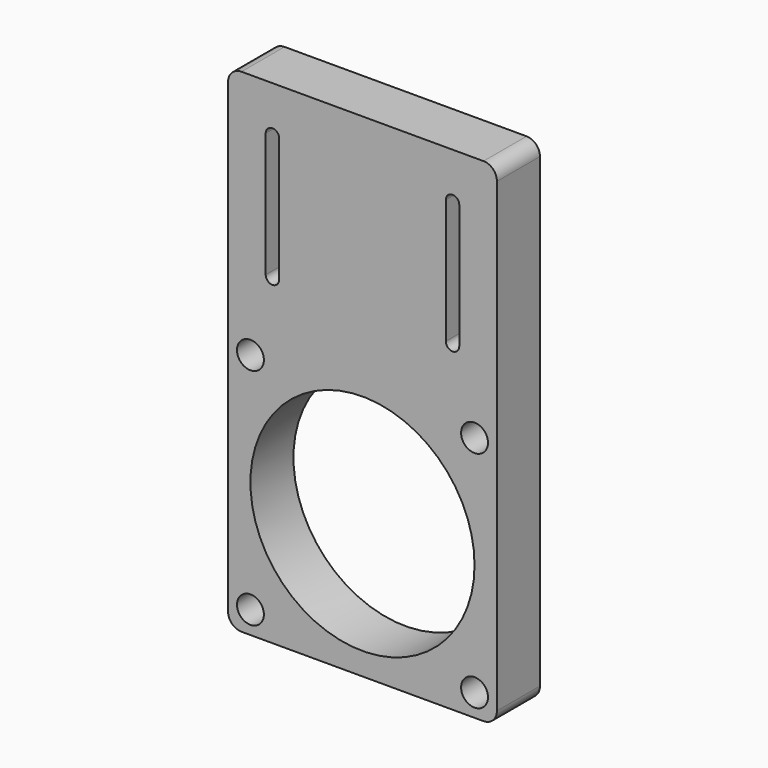
from build123d import *

# Parameters (mm, degrees)
F0_R     = 1.5
F0_R_2   = 12.5
F1_DEPTH = 6


with BuildPart() as f1:
    # F0 (on Front) → F1 (new body)
    with BuildSketch(Plane.XZ):
        with BuildLine():
            Line((-13.5, -27.5), (13.5, -27.5))
            ThreePointArc((13.5, -27.5), (14.56066, -27.06066), (15, -26))
            Line((15, -26), (15, 26))
            ThreePointArc((15, 26), (14.56066, 27.06066), (13.5, 27.5))
            Line((13.5, 27.5), (-13.5, 27.5))
            ThreePointArc((-13.5, 27.5), (-14.56066, 27.06066), (-15, 26))
            Line((-15, 26), (-15, -26))
            ThreePointArc((-15, -26), (-14.56066, -27.06066), (-13.5, -27.5))
        make_face()
        with Locations((-12.5, -25)):
            Circle(F0_R, mode=Mode.SUBTRACT)
        with Locations((12.5, -25)):
            Circle(F0_R, mode=Mode.SUBTRACT)
        with Locations((0, -12.5)):
            Circle(F0_R_2, mode=Mode.SUBTRACT)
        with Locations((-12.5, 0)):
            Circle(F0_R, mode=Mode.SUBTRACT)
        with BuildLine():
            Line((-9.295934, 22.325195), (-9.295934, 8.433623))
            ThreePointArc((-9.295934, 8.433623), (-10.045934, 7.683623), (-10.795934, 8.433623))
            Line((-10.795934, 8.433623), (-10.795934, 22.325195))
            ThreePointArc((-10.795934, 22.325195), (-10.045934, 23.075195), (-9.295934, 22.325195))
        make_face(mode=Mode.SUBTRACT)
        with Locations((12.5, 0)):
            Circle(F0_R, mode=Mode.SUBTRACT)
        with BuildLine():
            Line((10.795934, 22.325195), (10.795934, 8.433623))
            ThreePointArc((10.795934, 8.433623), (10.045934, 7.683623), (9.295934, 8.433623))
            Line((9.295934, 8.433623), (9.295934, 22.325195))
            ThreePointArc((9.295934, 22.325195), (10.045934, 23.075195), (10.795934, 22.325195))
        make_face(mode=Mode.SUBTRACT)
    extrude(amount=F1_DEPTH)


solid = f1.part
